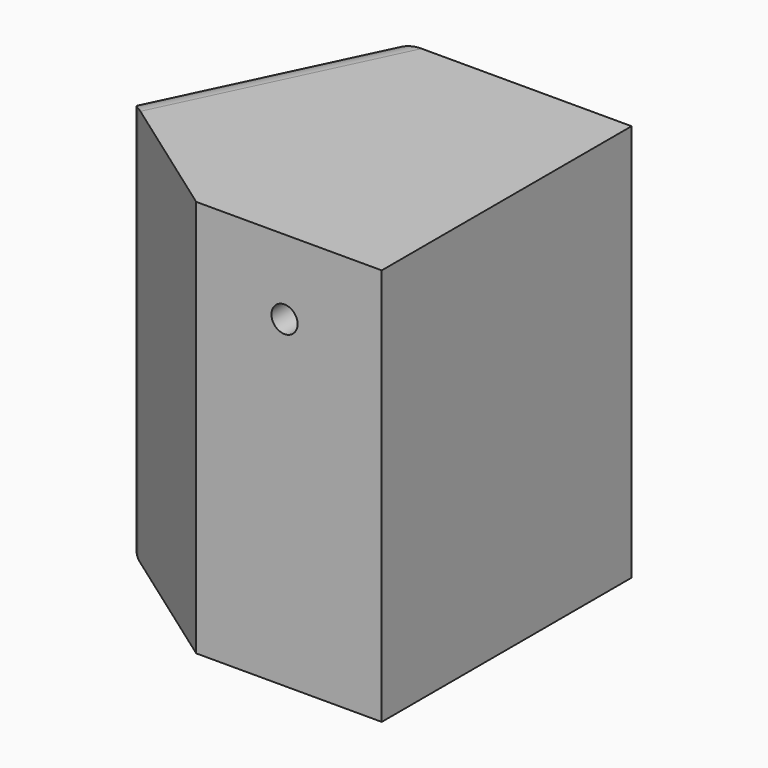
from build123d import *

# Parameters (mm, degrees)
F1_DEPTH = 96.519992
F2_R     = 8.781853
F4_D     = 6.35


with BuildPart() as f1:
    # F0 (on Top) → F1 (new body)
    with BuildSketch(Plane.XY):
        Polygon((-23.089193, 0), (15.667696, -27.583569), (60.70821, -27.583569), (60.70821, 48.24049), (0, 48.24049), align=None)
    extrude(amount=F1_DEPTH)

    # F2
    f2_edges = [f1.edges().sort_by_distance(p)[0] for p in [
        (0, 48.24049, 48.259996),
        (-23.089193, 0, 48.259996),
        (-11.544596, 24.120245, 0),
        (-11.544596, 24.120245, 96.519992),
    ]]
    fillet(f2_edges, radius=F2_R)

    # F4 (through all)
    with Locations(Plane.XZ.offset(27.583569)):
        with Locations((37.103444, 78.396708)):
            Hole(F4_D / 2)


solid = f1.part
